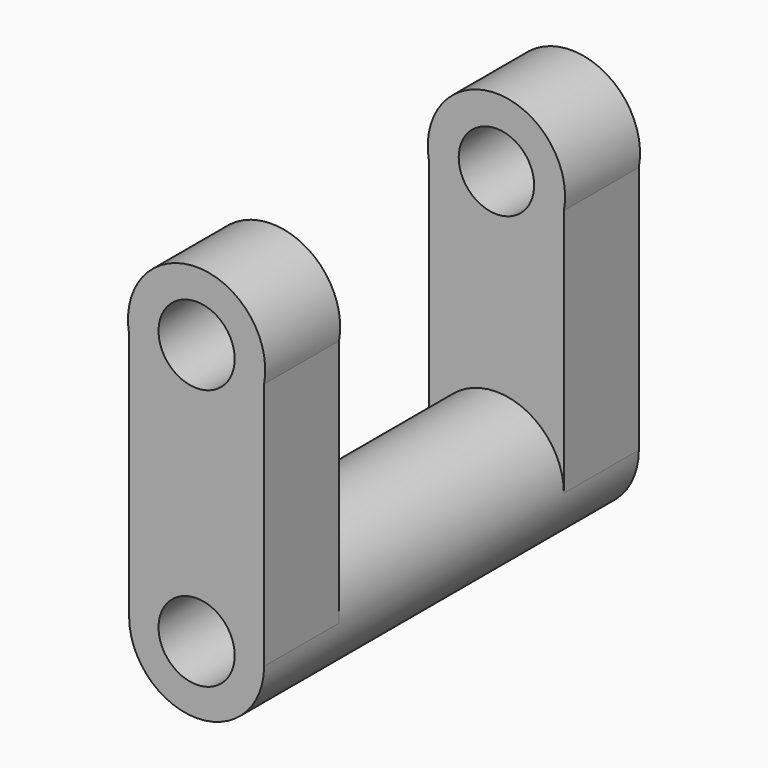
from build123d import *

# Parameters (mm, degrees)
F0_R     = 10.323224
F1_DEPTH = 127
F2_DEPTH = 25.4
F3_R     = 10.223402
F4_DEPTH = 25.4


with BuildPart() as f1:
    # F0 (on Front) → F1 (new body)
    with BuildSketch(Plane.XZ):
        with BuildLine():
            ThreePointArc((-18.294126, 0), (0, -18.294126), (18.294126, 0))
            ThreePointArc((18.294126, 0), (0, 18.294126), (-18.294126, 0))
        make_face()
        Circle(F0_R, mode=Mode.SUBTRACT)
    extrude(amount=-F1_DEPTH)

    # F0 (on Front) → F2 (join)
    with BuildSketch(Plane.XZ):
        with BuildLine():
            ThreePointArc((-18.294126, 0), (0, -18.294126), (18.294126, 0))
            ThreePointArc((18.294126, 0), (0, 18.294126), (-18.294126, 0))
        make_face()
        Circle(F0_R, mode=Mode.SUBTRACT)
        with BuildLine():
            ThreePointArc((-18.294126, 0), (0, 18.294126), (18.294126, 0))
            Line((18.294126, 0), (18.294126, 67.357816))
            ThreePointArc((18.294126, 67.357816), (0, 89.361622), (-18.294126, 67.357816))
            Line((-18.294126, 67.357816), (-18.294126, 0))
        make_face()
        with Locations((0, 70.754784)):
            Circle(F0_R, mode=Mode.SUBTRACT)
    extrude(amount=-F2_DEPTH)

    # F3 (on face) → F4 (join)
    with BuildSketch(Plane(origin=(0, 127, 0), x_dir=(-1, 0, 0), z_dir=(0, 1, 0))):
        with BuildLine():
            Line((-18.294126, 67.450888), (-18.294126, 0))
            ThreePointArc((-18.294126, 0), (0, 18.294126), (18.294126, 0))
            Line((18.294126, 0), (18.294126, 67.450888))
            ThreePointArc((18.294126, 67.450888), (0, 89.491754), (-18.294126, 67.450888))
        make_face()
        with Locations((0, 70.879173)):
            Circle(F3_R, mode=Mode.SUBTRACT)
    extrude(amount=-F4_DEPTH)


solid = f1.part
